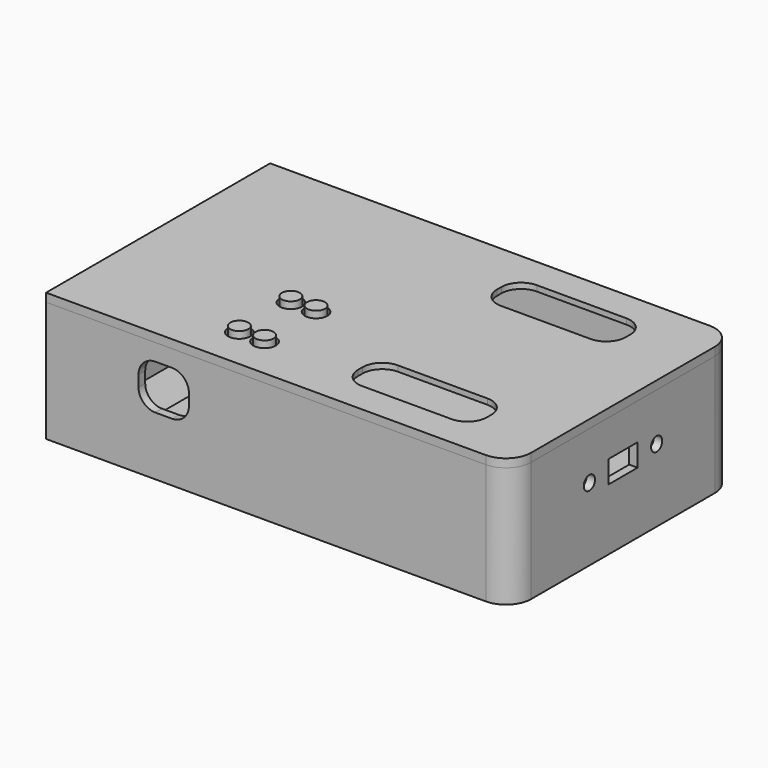
from build123d import *

# Parameters (mm, degrees)
CYLINDER007_R              = 1.6
CYLINDER007_DEPTH          = 8
CYLINDER006_R              = 1.6
CYLINDER006_DEPTH          = 8
BOX047_W                   = 9.5
BOX047_H                   = 5
BOX047_DEPTH               = 1
CYLINDER013_R              = 2
CYLINDER013_DEPTH          = 3.5
CYLINDER012_R              = 2
CYLINDER012_DEPTH          = 3.5
CYLINDER010_R              = 2
CYLINDER010_DEPTH          = 3.5
CYLINDER008_R              = 2
CYLINDER008_DEPTH          = 3.5
CYLINDER015_R              = 3
CYLINDER015_DEPTH          = 3.5
CYLINDER014_R              = 3
CYLINDER014_DEPTH          = 3.5
CYLINDER011_R              = 3
CYLINDER011_DEPTH          = 3.5
CYLINDER009_R              = 3
CYLINDER009_DEPTH          = 3.5
CYLINDER005_R              = 2
CYLINDER005_DEPTH          = 28
CYLINDER004_R              = 2
CYLINDER004_DEPTH          = 28
CYLINDER003_R              = 2
CYLINDER003_DEPTH          = 28
CYLINDER002_R              = 2
CYLINDER002_DEPTH          = 28
BOX045_W                   = 23
BOX045_H                   = 8
BOX045_DEPTH               = 28
FILLET008_R                = 3.5
BOX046_W                   = 23
BOX046_H                   = 8
BOX046_DEPTH               = 28
FILLET007_R                = 3.5
BOX044_W                   = 26
BOX044_H                   = 11
BOX044_DEPTH               = 28
FILLET006_R                = 5
BOX043_W                   = 26
BOX043_H                   = 11
BOX043_DEPTH               = 28
FILLET005_R                = 5
BOX041_W                   = 1
BOX041_H                   = 5
BOX041_DEPTH               = 3
BOX042_W                   = 1
BOX042_H                   = 5
BOX042_DEPTH               = 0.8
CHAMFER019_SIZE            = 0.8
CHAMFER018_SIZE            = 0.4
CHAMFER018_PLACEMENT_ANGLE = 90
BOX039_W                   = 1
BOX039_H                   = 5
BOX039_DEPTH               = 3
BOX040_W                   = 1
BOX040_H                   = 5
BOX040_DEPTH               = 0.8
CHAMFER017_SIZE            = 0.8
CHAMFER016_SIZE            = 0.4
CHAMFER016_PLACEMENT_ANGLE = 90
BOX037_W                   = 1
BOX037_H                   = 5
BOX037_DEPTH               = 3
BOX038_W                   = 1
BOX038_H                   = 5
BOX038_DEPTH               = 0.8
CHAMFER015_SIZE            = 0.8
CHAMFER014_SIZE            = 0.4
CHAMFER014_PLACEMENT_ANGLE = 90
BOX035_W                   = 1
BOX035_H                   = 5
BOX035_DEPTH               = 3
BOX036_W                   = 1
BOX036_H                   = 5
BOX036_DEPTH               = 0.8
CHAMFER013_SIZE            = 0.8
CHAMFER012_SIZE            = 0.4
CHAMFER012_PLACEMENT_ANGLE = 180
BOX034_W                   = 1
BOX034_H                   = 5
BOX034_DEPTH               = 3
BOX033_W                   = 1
BOX033_H                   = 5
BOX033_DEPTH               = 0.8
CHAMFER010_SIZE            = 0.8
CHAMFER011_SIZE            = 0.4
CHAMFER011_PLACEMENT_ANGLE = 180
BOX031_W                   = 1
BOX031_H                   = 5
BOX031_DEPTH               = 3
BOX032_W                   = 1
BOX032_H                   = 5
BOX032_DEPTH               = 0.8
CHAMFER008_SIZE            = 0.8
CHAMFER009_SIZE            = 0.4
BOX030_W                   = 1
BOX030_H                   = 5
BOX030_DEPTH               = 3
BOX014_W                   = 1
BOX014_H                   = 5
BOX014_DEPTH               = 0.8
CHAMFER006_SIZE            = 0.8
CHAMFER007_SIZE            = 0.4
BOX029_W                   = 83
BOX029_H                   = 50
BOX029_DEPTH               = 1.5
FILLET004_R                = 4.5
CHAMFER020_SIZE            = 2
CHAMFER021_SIZE            = 2
CHAMFER022_SIZE            = 2
CHAMFER023_SIZE            = 2
CHAMFER024_SIZE            = 2
CHAMFER025_SIZE            = 2
CHAMFER026_SIZE            = 2
FILLET009_R                = 0.4
FILLET010_R                = 0.4
FILLET011_R                = 0.4
FILLET012_R                = 0.4
FILLET013_R                = 0.4
FILLET014_R                = 0.4
FILLET015_R                = 0.4
CYLINDER017_R              = 1.6
CYLINDER017_DEPTH          = 8
CYLINDER016_R              = 1.6
CYLINDER016_DEPTH          = 8
BOX048_W                   = 9.5
BOX048_H                   = 5
BOX048_DEPTH               = 1
BOX025_W                   = 36
BOX025_H                   = 6
BOX025_DEPTH               = 8.5
BOX024_W                   = 36
BOX024_H                   = 6
BOX024_DEPTH               = 8.5
BOX028_W                   = 18
BOX028_H                   = 47
BOX028_DEPTH               = 11
BOX027_W                   = 36
BOX027_H                   = 6
BOX027_DEPTH               = 8.5
BOX026_W                   = 36
BOX026_H                   = 6
BOX026_DEPTH               = 8.5
CUT022_PLACEMENT_ANGLE     = 180
BOX023_W                   = 9
BOX023_H                   = 47
BOX023_DEPTH               = 8
BOX020_W                   = 0.5
BOX020_H                   = 5
BOX020_DEPTH               = 3
BOX019_W                   = 0.5
BOX019_H                   = 5
BOX019_DEPTH               = 3
BOX018_W                   = 0.5
BOX018_H                   = 5
BOX018_DEPTH               = 3
BOX017_W                   = 0.5
BOX017_H                   = 5
BOX017_DEPTH               = 3
BOX016_W                   = 0.5
BOX016_H                   = 5
BOX016_DEPTH               = 3
BOX015_W                   = 0.5
BOX015_H                   = 5
BOX015_DEPTH               = 3
BOX013_W                   = 0.5
BOX013_H                   = 5
BOX013_DEPTH               = 3
BOX012_W                   = 1
BOX012_H                   = 5
BOX012_DEPTH               = 1
BOX011_W                   = 1
BOX011_H                   = 5
BOX011_DEPTH               = 1
BOX010_W                   = 1
BOX010_H                   = 5
BOX010_DEPTH               = 1
BOX009_W                   = 1
BOX009_H                   = 5
BOX009_DEPTH               = 1
BOX008_W                   = 1
BOX008_H                   = 5
BOX008_DEPTH               = 1
BOX007_W                   = 1
BOX007_H                   = 5
BOX007_DEPTH               = 1
BOX006_W                   = 1
BOX006_H                   = 5
BOX006_DEPTH               = 1
BOX005_W                   = 10
BOX005_H                   = 6.5
BOX005_DEPTH               = 4
CYLINDER001_R              = 1.25
CYLINDER001_DEPTH          = 10
CYLINDER_R                 = 1.25
CYLINDER_DEPTH             = 10
BOX003_W                   = 36
BOX003_H                   = 8
BOX003_DEPTH               = 5
BOX002_W                   = 36
BOX002_H                   = 47
BOX002_DEPTH               = 11
BOX_W                      = 80
BOX_H                      = 47
BOX_DEPTH                  = 20
BOX001_W                   = 83
BOX001_H                   = 50
BOX001_DEPTH               = 21.5
FILLET_R                   = 3
FILLET001_R                = 4.5
FILLET002_R                = 2
CHAMFER_SIZE               = 0.8
CHAMFER001_SIZE            = 0.8
CHAMFER002_SIZE            = 0.8
CHAMFER003_SIZE            = 0.8
CHAMFER004_SIZE            = 0.8
CHAMFER005_SIZE            = 0.8
FILLET003_R                = 3
CHAMFER027_SIZE            = 3.8
CHAMFER028_SIZE            = 3.8


with BuildPart() as cylinder007:
    # Cylinder007 → Cylinder007 (new body)
    with BuildSketch(Plane(origin=(31.5, 6, 0), x_dir=(1, 0, 0), z_dir=(0, 0, 1))):
        Circle(CYLINDER007_R)
    extrude(amount=CYLINDER007_DEPTH)


with BuildPart() as cylinder006:
    # Cylinder006 → Cylinder006 (new body)
    with BuildSketch(Plane(origin=(27, 6, 0), x_dir=(1, 0, 0), z_dir=(0, 0, 1))):
        Circle(CYLINDER006_R)
    extrude(amount=CYLINDER006_DEPTH)


with BuildPart() as fusion015:
    # Box047 → Box047 (new body)
    with BuildSketch(Plane(origin=(24.5, 3.5, 0), x_dir=(1, 0, 0), z_dir=(0, 0, 1))):
        with Locations((4.75, 2.5)):
            Rectangle(BOX047_W, BOX047_H)
    extrude(amount=BOX047_DEPTH)

    # Fusion014: union Cylinder006
    add(cylinder006.part)

    # Fusion015: union Cylinder007
    add(cylinder007.part)


with BuildPart() as fusion015_1:
    # Fusion015 placement: moved
    add(fusion015.part.moved(Location((0, 0, 16))))


with BuildPart() as cylinder013:
    # Cylinder013 → Cylinder013 (new body)
    with BuildSketch(Plane(origin=(31.5, 6, 18), x_dir=(1, 0, 0), z_dir=(0, 0, 1))):
        Circle(CYLINDER013_R)
    extrude(amount=CYLINDER013_DEPTH)


with BuildPart() as cylinder012:
    # Cylinder012 → Cylinder012 (new body)
    with BuildSketch(Plane(origin=(27, 6, 18), x_dir=(1, 0, 0), z_dir=(0, 0, 1))):
        Circle(CYLINDER012_R)
    extrude(amount=CYLINDER012_DEPTH)


with BuildPart() as cylinder010:
    # Cylinder010 → Cylinder010 (new body)
    with BuildSketch(Plane(origin=(31.5, 17.5, 18), x_dir=(1, 0, 0), z_dir=(0, 0, 1))):
        Circle(CYLINDER010_R)
    extrude(amount=CYLINDER010_DEPTH)


with BuildPart() as cylinder008:
    # Cylinder008 → Cylinder008 (new body)
    with BuildSketch(Plane(origin=(27, 17.5, 18), x_dir=(1, 0, 0), z_dir=(0, 0, 1))):
        Circle(CYLINDER008_R)
    extrude(amount=CYLINDER008_DEPTH)


with BuildPart() as cylinder015:
    # Cylinder015 → Cylinder015 (new body)
    with BuildSketch(Plane(origin=(31.5, 6, 18), x_dir=(1, 0, 0), z_dir=(0, 0, 1))):
        Circle(CYLINDER015_R)
    extrude(amount=CYLINDER015_DEPTH)


with BuildPart() as cylinder014:
    # Cylinder014 → Cylinder014 (new body)
    with BuildSketch(Plane(origin=(27, 6, 18), x_dir=(1, 0, 0), z_dir=(0, 0, 1))):
        Circle(CYLINDER014_R)
    extrude(amount=CYLINDER014_DEPTH)


with BuildPart() as cylinder011:
    # Cylinder011 → Cylinder011 (new body)
    with BuildSketch(Plane(origin=(31.5, 17.5, 18), x_dir=(1, 0, 0), z_dir=(0, 0, 1))):
        Circle(CYLINDER011_R)
    extrude(amount=CYLINDER011_DEPTH)


with BuildPart() as cylinder009:
    # Cylinder009 → Cylinder009 (new body)
    with BuildSketch(Plane(origin=(27, 17.5, 18), x_dir=(1, 0, 0), z_dir=(0, 0, 1))):
        Circle(CYLINDER009_R)
    extrude(amount=CYLINDER009_DEPTH)


with BuildPart() as cylinder005:
    # Cylinder005 → Cylinder005 (new body)
    with BuildSketch(Plane(origin=(27, 6, 0), x_dir=(1, 0, 0), z_dir=(0, 0, 1))):
        Circle(CYLINDER005_R)
    extrude(amount=CYLINDER005_DEPTH)


with BuildPart() as cylinder004:
    # Cylinder004 → Cylinder004 (new body)
    with BuildSketch(Plane(origin=(31.5, 6, 0), x_dir=(1, 0, 0), z_dir=(0, 0, 1))):
        Circle(CYLINDER004_R)
    extrude(amount=CYLINDER004_DEPTH)


with BuildPart() as cylinder003:
    # Cylinder003 → Cylinder003 (new body)
    with BuildSketch(Plane(origin=(31.5, 17.5, 0), x_dir=(1, 0, 0), z_dir=(0, 0, 1))):
        Circle(CYLINDER003_R)
    extrude(amount=CYLINDER003_DEPTH)


with BuildPart() as cylinder002:
    # Cylinder002 → Cylinder002 (new body)
    with BuildSketch(Plane(origin=(27, 17.5, 0), x_dir=(1, 0, 0), z_dir=(0, 0, 1))):
        Circle(CYLINDER002_R)
    extrude(amount=CYLINDER002_DEPTH)


with BuildPart() as fillet008:
    # Box045 → Box045 (new body)
    with BuildSketch(Plane(origin=(47, 35, 0), x_dir=(1, 0, 0), z_dir=(0, 0, 1))):
        with Locations((11.5, 4)):
            Rectangle(BOX045_W, BOX045_H)
    extrude(amount=BOX045_DEPTH)

    # Fillet008
    fillet008_edges = [fillet008.edges().sort_by_distance(p)[0] for p in [
        (47, 35, 14),
        (47, 43, 14),
        (70, 35, 14),
        (70, 43, 14),
    ]]
    fillet(fillet008_edges, radius=FILLET008_R)


with BuildPart() as fillet007:
    # Box046 → Box046 (new body)
    with BuildSketch(Plane(origin=(47, 4, 0), x_dir=(1, 0, 0), z_dir=(0, 0, 1))):
        with Locations((11.5, 4)):
            Rectangle(BOX046_W, BOX046_H)
    extrude(amount=BOX046_DEPTH)

    # Fillet007
    fillet007_edges = [fillet007.edges().sort_by_distance(p)[0] for p in [
        (47, 4, 14),
        (47, 12, 14),
        (70, 4, 14),
        (70, 12, 14),
    ]]
    fillet(fillet007_edges, radius=FILLET007_R)


with BuildPart() as fillet006:
    # Box044 → Box044 (new body)
    with BuildSketch(Plane(origin=(45.5, 30.5, 0), x_dir=(1, 0, 0), z_dir=(0, 0, 1))):
        with Locations((13, 5.5)):
            Rectangle(BOX044_W, BOX044_H)
    extrude(amount=BOX044_DEPTH)

    # Fillet006
    fillet006_edges = [fillet006.edges().sort_by_distance(p)[0] for p in [
        (45.5, 30.5, 14),
        (45.5, 41.5, 14),
        (71.5, 30.5, 14),
        (71.5, 41.5, 14),
    ]]
    fillet(fillet006_edges, radius=FILLET006_R)


with BuildPart() as fillet006_1:
    # Fillet006 placement: moved
    add(fillet006.part.moved(Location((0, -28, -6))))


with BuildPart() as fillet005:
    # Box043 → Box043 (new body)
    with BuildSketch(Plane(origin=(45.5, 30.5, 0), x_dir=(1, 0, 0), z_dir=(0, 0, 1))):
        with Locations((13, 5.5)):
            Rectangle(BOX043_W, BOX043_H)
    extrude(amount=BOX043_DEPTH)

    # Fillet005
    fillet005_edges = [fillet005.edges().sort_by_distance(p)[0] for p in [
        (45.5, 30.5, 14),
        (45.5, 41.5, 14),
        (71.5, 30.5, 14),
        (71.5, 41.5, 14),
    ]]
    fillet(fillet005_edges, radius=FILLET005_R)


with BuildPart() as fillet005_1:
    # Fillet005 placement: moved
    add(fillet005.part.moved(Location((0, 3, -6))))


with BuildPart() as cube041:
    # Box041 → Box041 (new body)
    with BuildSketch(Plane(origin=(71.5, 1.2, 19), x_dir=(0, -1, 0), z_dir=(0, 0, 1))):
        with Locations((0.5, 2.5)):
            Rectangle(BOX041_W, BOX041_H)
    extrude(amount=BOX041_DEPTH)


with BuildPart() as chamfer018:
    # Box042 → Box042 (new body)
    with BuildSketch(Plane(origin=(71.5, 0.2, 19.1), x_dir=(0, -1, 0), z_dir=(0, 0, 1))):
        with Locations((0.5, 2.5)):
            Rectangle(BOX042_W, BOX042_H)
    extrude(amount=BOX042_DEPTH)

    # Fusion006: union Cube041
    add(cube041.part)

    # Chamfer019
    chamfer019_edges = [chamfer018.edges().sort_by_distance(p)[0] for p in [
        (74, 0.2, 19.9),
    ]]
    chamfer(chamfer019_edges, length=CHAMFER019_SIZE)

    # Chamfer018
    chamfer018_edges = [chamfer018.edges().sort_by_distance(p)[0] for p in [
        (74, -0.8, 19.1),
    ]]
    chamfer(chamfer018_edges, length=CHAMFER018_SIZE)


with BuildPart() as chamfer018_1:
    # Chamfer018 placement: moved
    add(chamfer018.part.moved(Location((0, 117.5, 0))).rotate(Axis((0, 117.5, 0), (0, 0, -1)), CHAMFER018_PLACEMENT_ANGLE))


with BuildPart() as cube039:
    # Box039 → Box039 (new body)
    with BuildSketch(Plane(origin=(71.5, 1.2, 19), x_dir=(0, -1, 0), z_dir=(0, 0, 1))):
        with Locations((0.5, 2.5)):
            Rectangle(BOX039_W, BOX039_H)
    extrude(amount=BOX039_DEPTH)


with BuildPart() as chamfer016:
    # Box040 → Box040 (new body)
    with BuildSketch(Plane(origin=(71.5, 0.2, 19.1), x_dir=(0, -1, 0), z_dir=(0, 0, 1))):
        with Locations((0.5, 2.5)):
            Rectangle(BOX040_W, BOX040_H)
    extrude(amount=BOX040_DEPTH)

    # Fusion005: union Cube039
    add(cube039.part)

    # Chamfer017
    chamfer017_edges = [chamfer016.edges().sort_by_distance(p)[0] for p in [
        (74, 0.2, 19.9),
    ]]
    chamfer(chamfer017_edges, length=CHAMFER017_SIZE)

    # Chamfer016
    chamfer016_edges = [chamfer016.edges().sort_by_distance(p)[0] for p in [
        (74, -0.8, 19.1),
    ]]
    chamfer(chamfer016_edges, length=CHAMFER016_SIZE)


with BuildPart() as chamfer016_1:
    # Chamfer016 placement: moved
    add(chamfer016.part.moved(Location((0, 77.5, 0))).rotate(Axis((0, 77.5, 0), (0, 0, -1)), CHAMFER016_PLACEMENT_ANGLE))


with BuildPart() as cube037:
    # Box037 → Box037 (new body)
    with BuildSketch(Plane(origin=(71.5, 1.2, 19), x_dir=(0, -1, 0), z_dir=(0, 0, 1))):
        with Locations((0.5, 2.5)):
            Rectangle(BOX037_W, BOX037_H)
    extrude(amount=BOX037_DEPTH)


with BuildPart() as chamfer014:
    # Box038 → Box038 (new body)
    with BuildSketch(Plane(origin=(71.5, 0.2, 19.1), x_dir=(0, -1, 0), z_dir=(0, 0, 1))):
        with Locations((0.5, 2.5)):
            Rectangle(BOX038_W, BOX038_H)
    extrude(amount=BOX038_DEPTH)

    # Fusion004: union Cube037
    add(cube037.part)

    # Chamfer015
    chamfer015_edges = [chamfer014.edges().sort_by_distance(p)[0] for p in [
        (74, 0.2, 19.9),
    ]]
    chamfer(chamfer015_edges, length=CHAMFER015_SIZE)

    # Chamfer014
    chamfer014_edges = [chamfer014.edges().sort_by_distance(p)[0] for p in [
        (74, -0.8, 19.1),
    ]]
    chamfer(chamfer014_edges, length=CHAMFER014_SIZE)


with BuildPart() as chamfer014_1:
    # Chamfer014 placement: moved
    add(chamfer014.part.moved(Location((80, -50.5, 0))).rotate(Axis((80, -50.5, 0), (0, 0, 1)), CHAMFER014_PLACEMENT_ANGLE))


with BuildPart() as cube035:
    # Box035 → Box035 (new body)
    with BuildSketch(Plane(origin=(71.5, 1.2, 19), x_dir=(0, -1, 0), z_dir=(0, 0, 1))):
        with Locations((0.5, 2.5)):
            Rectangle(BOX035_W, BOX035_H)
    extrude(amount=BOX035_DEPTH)


with BuildPart() as chamfer012:
    # Box036 → Box036 (new body)
    with BuildSketch(Plane(origin=(71.5, 0.2, 19.1), x_dir=(0, -1, 0), z_dir=(0, 0, 1))):
        with Locations((0.5, 2.5)):
            Rectangle(BOX036_W, BOX036_H)
    extrude(amount=BOX036_DEPTH)

    # Fusion003: union Cube035
    add(cube035.part)

    # Chamfer013
    chamfer013_edges = [chamfer012.edges().sort_by_distance(p)[0] for p in [
        (74, 0.2, 19.9),
    ]]
    chamfer(chamfer013_edges, length=CHAMFER013_SIZE)

    # Chamfer012
    chamfer012_edges = [chamfer012.edges().sort_by_distance(p)[0] for p in [
        (74, -0.8, 19.1),
    ]]
    chamfer(chamfer012_edges, length=CHAMFER012_SIZE)


with BuildPart() as chamfer012_1:
    # Chamfer012 placement: moved
    add(chamfer012.part.moved(Location((148, 47, 0))).rotate(Axis((148, 47, 0), (0, 0, 1)), CHAMFER012_PLACEMENT_ANGLE))


with BuildPart() as cube034:
    # Box034 → Box034 (new body)
    with BuildSketch(Plane(origin=(71.5, 1.2, 19), x_dir=(0, -1, 0), z_dir=(0, 0, 1))):
        with Locations((0.5, 2.5)):
            Rectangle(BOX034_W, BOX034_H)
    extrude(amount=BOX034_DEPTH)


with BuildPart() as chamfer011:
    # Box033 → Box033 (new body)
    with BuildSketch(Plane(origin=(71.5, 0.2, 19.1), x_dir=(0, -1, 0), z_dir=(0, 0, 1))):
        with Locations((0.5, 2.5)):
            Rectangle(BOX033_W, BOX033_H)
    extrude(amount=BOX033_DEPTH)

    # Fusion002: union Cube034
    add(cube034.part)

    # Chamfer010
    chamfer010_edges = [chamfer011.edges().sort_by_distance(p)[0] for p in [
        (74, 0.2, 19.9),
    ]]
    chamfer(chamfer010_edges, length=CHAMFER010_SIZE)

    # Chamfer011
    chamfer011_edges = [chamfer011.edges().sort_by_distance(p)[0] for p in [
        (74, -0.8, 19.1),
    ]]
    chamfer(chamfer011_edges, length=CHAMFER011_SIZE)


with BuildPart() as chamfer011_1:
    # Chamfer011 placement: moved
    add(chamfer011.part.moved(Location((114, 47, 0))).rotate(Axis((114, 47, 0), (0, 0, 1)), CHAMFER011_PLACEMENT_ANGLE))


with BuildPart() as cube031:
    # Box031 → Box031 (new body)
    with BuildSketch(Plane(origin=(71.5, 1.2, 19), x_dir=(0, -1, 0), z_dir=(0, 0, 1))):
        with Locations((0.5, 2.5)):
            Rectangle(BOX031_W, BOX031_H)
    extrude(amount=BOX031_DEPTH)


with BuildPart() as chamfer009:
    # Box032 → Box032 (new body)
    with BuildSketch(Plane(origin=(71.5, 0.2, 19.1), x_dir=(0, -1, 0), z_dir=(0, 0, 1))):
        with Locations((0.5, 2.5)):
            Rectangle(BOX032_W, BOX032_H)
    extrude(amount=BOX032_DEPTH)

    # Fusion001: union Cube031
    add(cube031.part)

    # Chamfer008
    chamfer008_edges = [chamfer009.edges().sort_by_distance(p)[0] for p in [
        (74, 0.2, 19.9),
    ]]
    chamfer(chamfer008_edges, length=CHAMFER008_SIZE)

    # Chamfer009
    chamfer009_edges = [chamfer009.edges().sort_by_distance(p)[0] for p in [
        (74, -0.8, 19.1),
    ]]
    chamfer(chamfer009_edges, length=CHAMFER009_SIZE)


with BuildPart() as chamfer009_1:
    # Chamfer009 placement: moved
    add(chamfer009.part.moved(Location((-34, 0, 0))))


with BuildPart() as cube030:
    # Box030 → Box030 (new body)
    with BuildSketch(Plane(origin=(71.5, 1.2, 19), x_dir=(0, -1, 0), z_dir=(0, 0, 1))):
        with Locations((0.5, 2.5)):
            Rectangle(BOX030_W, BOX030_H)
    extrude(amount=BOX030_DEPTH)


with BuildPart() as chamfer007:
    # Box014 → Box014 (new body)
    with BuildSketch(Plane(origin=(71.5, 0.2, 19.1), x_dir=(0, -1, 0), z_dir=(0, 0, 1))):
        with Locations((0.5, 2.5)):
            Rectangle(BOX014_W, BOX014_H)
    extrude(amount=BOX014_DEPTH)

    # Fusion: union Cube030
    add(cube030.part)

    # Chamfer006
    chamfer006_edges = [chamfer007.edges().sort_by_distance(p)[0] for p in [
        (74, 0.2, 19.9),
    ]]
    chamfer(chamfer006_edges, length=CHAMFER006_SIZE)

    # Chamfer007
    chamfer007_edges = [chamfer007.edges().sort_by_distance(p)[0] for p in [
        (74, -0.8, 19.1),
    ]]
    chamfer(chamfer007_edges, length=CHAMFER007_SIZE)


with BuildPart() as top:
    # Box029 → Box029 (new body)
    with BuildSketch(Plane(origin=(-1.5, -1.5, 21.5), x_dir=(1, 0, 0), z_dir=(0, 0, 1))):
        with Locations((41.5, 25)):
            Rectangle(BOX029_W, BOX029_H)
    extrude(amount=BOX029_DEPTH)

    # Fillet004
    fillet004_edges = [top.edges().sort_by_distance(p)[0] for p in [
        (81.5, -1.5, 22.25),
        (81.5, 48.5, 22.25),
    ]]
    fillet(fillet004_edges, radius=FILLET004_R)

    # Fusion007: union Chamfer007
    add(chamfer007.part)

    # Fusion008: union Chamfer009
    add(chamfer009_1.part)

    # Fusion009: union Chamfer011
    add(chamfer011_1.part)

    # Fusion010: union Chamfer012
    add(chamfer012_1.part)

    # Fusion011: union Chamfer014
    add(chamfer014_1.part)

    # Fusion012: union Chamfer016
    add(chamfer016_1.part)

    # Fusion013: union Chamfer018
    add(chamfer018_1.part)

    # Cut024: cut Fillet005
    add(fillet005_1.part, mode=Mode.SUBTRACT)

    # Cut025: cut Fillet006
    add(fillet006_1.part, mode=Mode.SUBTRACT)

    # Cut026: cut Fillet007
    add(fillet007.part, mode=Mode.SUBTRACT)

    # Cut027: cut Fillet008
    add(fillet008.part, mode=Mode.SUBTRACT)

    # Cut028: cut Cylinder002
    add(cylinder002.part, mode=Mode.SUBTRACT)

    # Cut029: cut Cylinder003
    add(cylinder003.part, mode=Mode.SUBTRACT)

    # Cut030: cut Cylinder004
    add(cylinder004.part, mode=Mode.SUBTRACT)

    # Cut031: cut Cylinder005
    add(cylinder005.part, mode=Mode.SUBTRACT)

    # Chamfer020
    chamfer020_edges = [top.edges().sort_by_distance(p)[0] for p in [
        (1.2, 3.5, 21.5),
    ]]
    chamfer(chamfer020_edges, length=CHAMFER020_SIZE)

    # Chamfer021
    chamfer021_edges = [top.edges().sort_by_distance(p)[0] for p in [
        (1.2, 43.5, 21.5),
    ]]
    chamfer(chamfer021_edges, length=CHAMFER021_SIZE)

    # Chamfer022
    chamfer022_edges = [top.edges().sort_by_distance(p)[0] for p in [
        (40, 45.8, 21.5),
    ]]
    chamfer(chamfer022_edges, length=CHAMFER022_SIZE)

    # Chamfer023
    chamfer023_edges = [top.edges().sort_by_distance(p)[0] for p in [
        (40, 1.2, 21.5),
    ]]
    chamfer(chamfer023_edges, length=CHAMFER023_SIZE)

    # Chamfer024
    chamfer024_edges = [top.edges().sort_by_distance(p)[0] for p in [
        (74, 1.2, 21.5),
    ]]
    chamfer(chamfer024_edges, length=CHAMFER024_SIZE)

    # Chamfer025
    chamfer025_edges = [top.edges().sort_by_distance(p)[0] for p in [
        (74, 45.8, 21.5),
    ]]
    chamfer(chamfer025_edges, length=CHAMFER025_SIZE)

    # Chamfer026
    chamfer026_edges = [top.edges().sort_by_distance(p)[0] for p in [
        (78.8, 23.5, 21.5),
    ]]
    chamfer(chamfer026_edges, length=CHAMFER026_SIZE)

    # Fillet009
    fillet009_edges = [top.edges().sort_by_distance(p)[0] for p in [
        (-0.8, 6, 19.7),
        (-0.8, 1, 19.7),
    ]]
    fillet(fillet009_edges, radius=FILLET009_R)

    # Fillet010
    fillet010_edges = [top.edges().sort_by_distance(p)[0] for p in [
        (-0.8, 46, 19.7),
        (-0.8, 41, 19.7),
    ]]
    fillet(fillet010_edges, radius=FILLET010_R)

    # Fillet011
    fillet011_edges = [top.edges().sort_by_distance(p)[0] for p in [
        (37.5, -0.8, 19.7),
        (42.5, -0.8, 19.7),
    ]]
    fillet(fillet011_edges, radius=FILLET011_R)

    # Fillet012
    fillet012_edges = [top.edges().sort_by_distance(p)[0] for p in [
        (71.5, -0.8, 19.7),
        (76.5, -0.8, 19.7),
    ]]
    fillet(fillet012_edges, radius=FILLET012_R)

    # Fillet013
    fillet013_edges = [top.edges().sort_by_distance(p)[0] for p in [
        (80.8, 21, 19.7),
        (80.8, 26, 19.7),
    ]]
    fillet(fillet013_edges, radius=FILLET013_R)

    # Fillet014
    fillet014_edges = [top.edges().sort_by_distance(p)[0] for p in [
        (76.5, 47.8, 19.7),
        (71.5, 47.8, 19.7),
    ]]
    fillet(fillet014_edges, radius=FILLET014_R)

    # Fillet015
    fillet015_edges = [top.edges().sort_by_distance(p)[0] for p in [
        (42.5, 47.8, 19.7),
        (37.5, 47.8, 19.7),
    ]]
    fillet(fillet015_edges, radius=FILLET015_R)

    # Fusion016: union Cylinder009
    add(cylinder009.part)

    # Fusion017: union Cylinder011
    add(cylinder011.part)

    # Fusion018: union Cylinder014
    add(cylinder014.part)

    # Fusion019: union Cylinder015
    add(cylinder015.part)

    # Cut032: cut Cylinder008
    add(cylinder008.part, mode=Mode.SUBTRACT)

    # Cut033: cut Cylinder010
    add(cylinder010.part, mode=Mode.SUBTRACT)

    # Cut034: cut Cylinder012
    add(cylinder012.part, mode=Mode.SUBTRACT)

    # Cut035: cut Cylinder013
    add(cylinder013.part, mode=Mode.SUBTRACT)


with BuildPart() as cylinder017:
    # Cylinder017 → Cylinder017 (new body)
    with BuildSketch(Plane(origin=(31.5, 6, 0), x_dir=(1, 0, 0), z_dir=(0, 0, 1))):
        Circle(CYLINDER017_R)
    extrude(amount=CYLINDER017_DEPTH)


with BuildPart() as cylinder016:
    # Cylinder016 → Cylinder016 (new body)
    with BuildSketch(Plane(origin=(27, 6, 0), x_dir=(1, 0, 0), z_dir=(0, 0, 1))):
        Circle(CYLINDER016_R)
    extrude(amount=CYLINDER016_DEPTH)


with BuildPart() as fusion021:
    # Box048 → Box048 (new body)
    with BuildSketch(Plane(origin=(24.5, 3.5, 0), x_dir=(1, 0, 0), z_dir=(0, 0, 1))):
        with Locations((4.75, 2.5)):
            Rectangle(BOX048_W, BOX048_H)
    extrude(amount=BOX048_DEPTH)

    # Fusion020: union Cylinder016
    add(cylinder016.part)

    # Fusion021: union Cylinder017
    add(cylinder017.part)


with BuildPart() as fusion021_1:
    # Fusion021 placement: moved
    add(fusion021.part.moved(Location((0, 11.5, 16))))


with BuildPart() as cube025:
    # Box025 → Box025 (new body)
    with BuildSketch(Plane(origin=(0, 39, 0), x_dir=(1, 0, 0), z_dir=(0, 0, 1))):
        with Locations((18, 3)):
            Rectangle(BOX025_W, BOX025_H)
    extrude(amount=BOX025_DEPTH)


with BuildPart() as cut021:
    # Box024 → Box024 (new body)
    with BuildSketch(Plane(origin=(0, 41, 1.5), x_dir=(1, 0, 0), z_dir=(0, 0, 1))):
        with Locations((18, 3)):
            Rectangle(BOX024_W, BOX024_H)
    extrude(amount=BOX024_DEPTH)

    # Cut021: cut Cube025
    add(cube025.part, mode=Mode.SUBTRACT)


with BuildPart() as cube028:
    # Box028 → Box028 (new body)
    with BuildSketch(Plane(origin=(0, -19.5, -0.5), x_dir=(1, 0, 0), z_dir=(0, 0, 1))):
        with Locations((9, 23.5)):
            Rectangle(BOX028_W, BOX028_H)
    extrude(amount=BOX028_DEPTH)


with BuildPart() as cube027:
    # Box027 → Box027 (new body)
    with BuildSketch(Plane(origin=(0, 39, 0), x_dir=(1, 0, 0), z_dir=(0, 0, 1))):
        with Locations((18, 3)):
            Rectangle(BOX027_W, BOX027_H)
    extrude(amount=BOX027_DEPTH)


with BuildPart() as cut023:
    # Box026 → Box026 (new body)
    with BuildSketch(Plane(origin=(0, 41, 1.5), x_dir=(1, 0, 0), z_dir=(0, 0, 1))):
        with Locations((18, 3)):
            Rectangle(BOX026_W, BOX026_H)
    extrude(amount=BOX026_DEPTH)

    # Cut022: cut Cube027
    add(cube027.part, mode=Mode.SUBTRACT)


with BuildPart() as cut023_1:
    # Cut022 placement: moved
    add(cut023.part.moved(Location((36, 47, 0))).rotate(Axis((36, 47, 0), (0, 0, 1)), CUT022_PLACEMENT_ANGLE))

    # Cut023: cut Cube028
    add(cube028.part, mode=Mode.SUBTRACT)


with BuildPart() as cube023:
    # Box023 → Box023 (new body)
    with BuildSketch(Plane(origin=(15, -6, 10.5), x_dir=(1, 0, 0), z_dir=(0, 0, 1))):
        with Locations((4.5, 23.5)):
            Rectangle(BOX023_W, BOX023_H)
    extrude(amount=BOX023_DEPTH)


with BuildPart() as cube020:
    # Box020 → Box020 (new body)
    with BuildSketch(Plane(origin=(-0.5, 1, 19), x_dir=(1, 0, 0), z_dir=(0, 0, 1))):
        with Locations((0.25, 2.5)):
            Rectangle(BOX020_W, BOX020_H)
    extrude(amount=BOX020_DEPTH)


with BuildPart() as cube019:
    # Box019 → Box019 (new body)
    with BuildSketch(Plane(origin=(-0.5, 41, 19), x_dir=(1, 0, 0), z_dir=(0, 0, 1))):
        with Locations((0.25, 2.5)):
            Rectangle(BOX019_W, BOX019_H)
    extrude(amount=BOX019_DEPTH)


with BuildPart() as cube018:
    # Box018 → Box018 (new body)
    with BuildSketch(Plane(origin=(80, 21, 19), x_dir=(1, 0, 0), z_dir=(0, 0, 1))):
        with Locations((0.25, 2.5)):
            Rectangle(BOX018_W, BOX018_H)
    extrude(amount=BOX018_DEPTH)


with BuildPart() as cube017:
    # Box017 → Box017 (new body)
    with BuildSketch(Plane(origin=(37.5, 47.5, 19), x_dir=(0, -1, 0), z_dir=(0, 0, 1))):
        with Locations((0.25, 2.5)):
            Rectangle(BOX017_W, BOX017_H)
    extrude(amount=BOX017_DEPTH)


with BuildPart() as cube016:
    # Box016 → Box016 (new body)
    with BuildSketch(Plane(origin=(71.5, 47.5, 19), x_dir=(0, -1, 0), z_dir=(0, 0, 1))):
        with Locations((0.25, 2.5)):
            Rectangle(BOX016_W, BOX016_H)
    extrude(amount=BOX016_DEPTH)


with BuildPart() as cube015:
    # Box015 → Box015 (new body)
    with BuildSketch(Plane(origin=(37.5, 0, 19), x_dir=(0, -1, 0), z_dir=(0, 0, 1))):
        with Locations((0.25, 2.5)):
            Rectangle(BOX015_W, BOX015_H)
    extrude(amount=BOX015_DEPTH)


with BuildPart() as cube013:
    # Box013 → Box013 (new body)
    with BuildSketch(Plane(origin=(71.5, 0, 19), x_dir=(0, -1, 0), z_dir=(0, 0, 1))):
        with Locations((0.25, 2.5)):
            Rectangle(BOX013_W, BOX013_H)
    extrude(amount=BOX013_DEPTH)


with BuildPart() as cube012:
    # Box012 → Box012 (new body)
    with BuildSketch(Plane(origin=(71.5, 0, 19), x_dir=(0, -1, 0), z_dir=(0, 0, 1))):
        with Locations((0.5, 2.5)):
            Rectangle(BOX012_W, BOX012_H)
    extrude(amount=BOX012_DEPTH)


with BuildPart() as cube011:
    # Box011 → Box011 (new body)
    with BuildSketch(Plane(origin=(71.5, 48, 19), x_dir=(0, -1, 0), z_dir=(0, 0, 1))):
        with Locations((0.5, 2.5)):
            Rectangle(BOX011_W, BOX011_H)
    extrude(amount=BOX011_DEPTH)


with BuildPart() as cube010:
    # Box010 → Box010 (new body)
    with BuildSketch(Plane(origin=(37.5, 48, 19), x_dir=(0, -1, 0), z_dir=(0, 0, 1))):
        with Locations((0.5, 2.5)):
            Rectangle(BOX010_W, BOX010_H)
    extrude(amount=BOX010_DEPTH)


with BuildPart() as cube009:
    # Box009 → Box009 (new body)
    with BuildSketch(Plane(origin=(37.5, 0, 19), x_dir=(0, -1, 0), z_dir=(0, 0, 1))):
        with Locations((0.5, 2.5)):
            Rectangle(BOX009_W, BOX009_H)
    extrude(amount=BOX009_DEPTH)


with BuildPart() as cube008:
    # Box008 → Box008 (new body)
    with BuildSketch(Plane(origin=(80, 21, 19), x_dir=(1, 0, 0), z_dir=(0, 0, 1))):
        with Locations((0.5, 2.5)):
            Rectangle(BOX008_W, BOX008_H)
    extrude(amount=BOX008_DEPTH)


with BuildPart() as cube007:
    # Box007 → Box007 (new body)
    with BuildSketch(Plane(origin=(-1, 41, 19), x_dir=(1, 0, 0), z_dir=(0, 0, 1))):
        with Locations((0.5, 2.5)):
            Rectangle(BOX007_W, BOX007_H)
    extrude(amount=BOX007_DEPTH)


with BuildPart() as cube006:
    # Box006 → Box006 (new body)
    with BuildSketch(Plane(origin=(-1, 1, 19), x_dir=(1, 0, 0), z_dir=(0, 0, 1))):
        with Locations((0.5, 2.5)):
            Rectangle(BOX006_W, BOX006_H)
    extrude(amount=BOX006_DEPTH)


with BuildPart() as cube005:
    # Box005 → Box005 (new body)
    with BuildSketch(Plane(origin=(76, 20.25, 11), x_dir=(1, 0, 0), z_dir=(0, 0, 1))):
        with Locations((5, 3.25)):
            Rectangle(BOX005_W, BOX005_H)
    extrude(amount=BOX005_DEPTH)


with BuildPart() as cylinder001:
    # Cylinder001 → Cylinder001 (new body)
    with BuildSketch(Plane(origin=(76, 31, 13), x_dir=(0, 0, -1), z_dir=(1, 0, 0))):
        Circle(CYLINDER001_R)
    extrude(amount=CYLINDER001_DEPTH)


with BuildPart() as cylinder:
    # Cylinder → Cylinder (new body)
    with BuildSketch(Plane(origin=(76, 16, 13), x_dir=(0, 0, -1), z_dir=(1, 0, 0))):
        Circle(CYLINDER_R)
    extrude(amount=CYLINDER_DEPTH)


with BuildPart() as cube003:
    # Box003 → Box003 (new body)
    with BuildSketch(Plane(origin=(-19, 19.5, 10.5), x_dir=(1, 0, 0), z_dir=(0, 0, 1))):
        with Locations((18, 4)):
            Rectangle(BOX003_W, BOX003_H)
    extrude(amount=BOX003_DEPTH)


with BuildPart() as cube002:
    # Box002 → Box002 (new body)
    with BuildSketch(Plane(origin=(0, 8, 10.5), x_dir=(1, 0, 0), z_dir=(0, 0, 1))):
        with Locations((18, 23.5)):
            Rectangle(BOX002_W, BOX002_H)
    extrude(amount=BOX002_DEPTH)


with BuildPart() as cube:
    # Box → Box (new body)
    with BuildSketch(Plane.XY.offset(1.5)):
        with Locations((40, 23.5)):
            Rectangle(BOX_W, BOX_H)
    extrude(amount=BOX_DEPTH)


with BuildPart() as bottom:
    # Box001 → Box001 (new body)
    with BuildSketch(Plane(origin=(-1.5, -1.5, 0), x_dir=(1, 0, 0), z_dir=(0, 0, 1))):
        with Locations((41.5, 25)):
            Rectangle(BOX001_W, BOX001_H)
    extrude(amount=BOX001_DEPTH)

    # Cut: cut Cube
    add(cube.part, mode=Mode.SUBTRACT)

    # Fillet
    fillet_edges = [bottom.edges().sort_by_distance(p)[0] for p in [
        (80, 0, 11.5),
        (80, 47, 11.5),
    ]]
    fillet(fillet_edges, radius=FILLET_R)

    # Fillet001
    fillet001_edges = [bottom.edges().sort_by_distance(p)[0] for p in [
        (81.5, 48.5, 10.75),
        (81.5, -1.5, 10.75),
    ]]
    fillet(fillet001_edges, radius=FILLET001_R)

    # Cut001: cut Cube002
    add(cube002.part, mode=Mode.SUBTRACT)

    # Cut002: cut Cube003
    add(cube003.part, mode=Mode.SUBTRACT)

    # Fillet002
    fillet002_edges = [bottom.edges().sort_by_distance(p)[0] for p in [
        (-0.75, 27.5, 10.5),
        (-0.75, 19.5, 10.5),
    ]]
    fillet(fillet002_edges, radius=FILLET002_R)

    # Cut003: cut Cylinder
    add(cylinder.part, mode=Mode.SUBTRACT)

    # Cut004: cut Cylinder001
    add(cylinder001.part, mode=Mode.SUBTRACT)

    # Cut005: cut Cube005
    add(cube005.part, mode=Mode.SUBTRACT)

    # Cut006: cut Cube006
    add(cube006.part, mode=Mode.SUBTRACT)

    # Cut007: cut Cube007
    add(cube007.part, mode=Mode.SUBTRACT)

    # Cut008: cut Cube008
    add(cube008.part, mode=Mode.SUBTRACT)

    # Cut009: cut Cube009
    add(cube009.part, mode=Mode.SUBTRACT)

    # Cut010: cut Cube010
    add(cube010.part, mode=Mode.SUBTRACT)

    # Cut011: cut Cube011
    add(cube011.part, mode=Mode.SUBTRACT)

    # Cut012: cut Cube012
    add(cube012.part, mode=Mode.SUBTRACT)

    # Chamfer
    chamfer_edges = [bottom.edges().sort_by_distance(p)[0] for p in [
        (0, 3.5, 20),
        (40, 0, 20),
    ]]
    chamfer(chamfer_edges, length=CHAMFER_SIZE)

    # Chamfer001
    chamfer001_edges = [bottom.edges().sort_by_distance(p)[0] for p in [
        (0, 43.5, 20),
    ]]
    chamfer(chamfer001_edges, length=CHAMFER001_SIZE)

    # Chamfer002
    chamfer002_edges = [bottom.edges().sort_by_distance(p)[0] for p in [
        (40, 47, 20),
    ]]
    chamfer(chamfer002_edges, length=CHAMFER002_SIZE)

    # Chamfer003
    chamfer003_edges = [bottom.edges().sort_by_distance(p)[0] for p in [
        (74, 47, 20),
    ]]
    chamfer(chamfer003_edges, length=CHAMFER003_SIZE)

    # Chamfer004
    chamfer004_edges = [bottom.edges().sort_by_distance(p)[0] for p in [
        (80, 23.5, 20),
    ]]
    chamfer(chamfer004_edges, length=CHAMFER004_SIZE)

    # Chamfer005
    chamfer005_edges = [bottom.edges().sort_by_distance(p)[0] for p in [
        (74, 0, 20),
    ]]
    chamfer(chamfer005_edges, length=CHAMFER005_SIZE)

    # Cut013: cut Cube013
    add(cube013.part, mode=Mode.SUBTRACT)

    # Cut014: cut Cube015
    add(cube015.part, mode=Mode.SUBTRACT)

    # Cut015: cut Cube016
    add(cube016.part, mode=Mode.SUBTRACT)

    # Cut016: cut Cube017
    add(cube017.part, mode=Mode.SUBTRACT)

    # Cut017: cut Cube018
    add(cube018.part, mode=Mode.SUBTRACT)

    # Cut018: cut Cube019
    add(cube019.part, mode=Mode.SUBTRACT)

    # Cut019: cut Cube020
    add(cube020.part, mode=Mode.SUBTRACT)

    # Cut020: cut Cube023
    add(cube023.part, mode=Mode.SUBTRACT)

    # Fillet003
    fillet003_edges = [bottom.edges().sort_by_distance(p)[0] for p in [
        (15, -0.75, 18.5),
        (24, -0.75, 18.5),
        (24, -0.75, 10.5),
        (15, -0.75, 10.5),
    ]]
    fillet(fillet003_edges, radius=FILLET003_R)

    # Fusion022: union Cut021, Cut023
    add(cut021.part)
    add(cut023_1.part)

    # Chamfer027
    chamfer027_edges = [bottom.edges().sort_by_distance(p)[0] for p in [
        (18, 45, 8.5),
    ]]
    chamfer(chamfer027_edges, length=CHAMFER027_SIZE)

    # Chamfer028
    chamfer028_edges = [bottom.edges().sort_by_distance(p)[0] for p in [
        (27, 2, 8.5),
    ]]
    chamfer(chamfer028_edges, length=CHAMFER028_SIZE)


solid = Compound([fusion015_1.part, top.part, fusion021_1.part, bottom.part])
